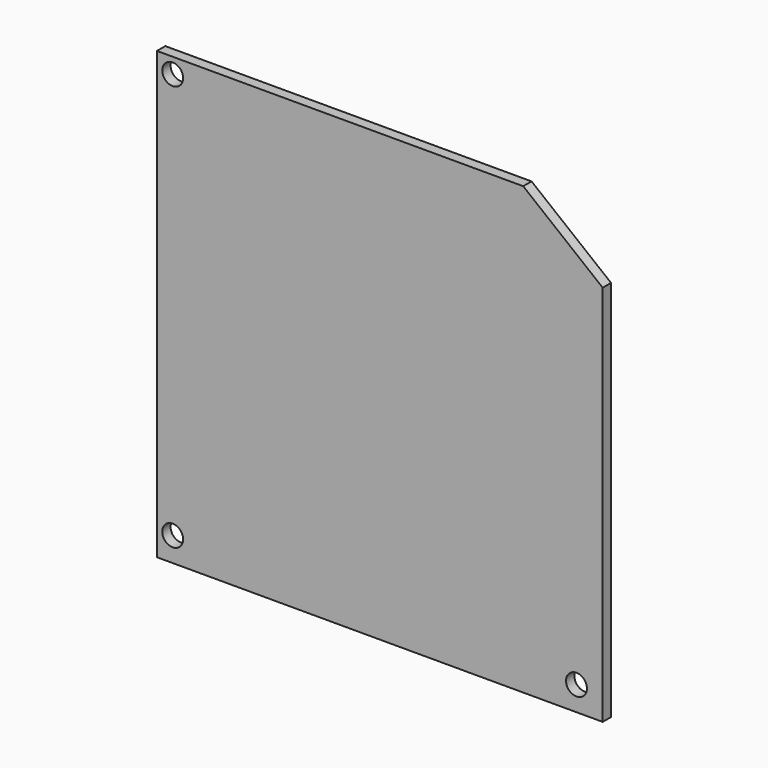
from build123d import *

# Parameters (mm, degrees)
F0_W     = 203.2
F0_H     = 203.2
F1_DEPTH = 4.7625
F3_DEPTH = 25.4
F5_D     = 9.525


with BuildPart() as f1:
    # F0 (on Front) → F1 (new body)
    with BuildSketch(Plane.XZ):
        with Locations((-69.8862, -6.438033)):
            Rectangle(F0_W, F0_H)
    extrude(amount=F1_DEPTH)

    # F2 (on face) → F3 (cut)
    with BuildSketch(Plane.XZ.offset(4.7625)):
        Polygon((31.7138, 95.161967), (-4.51766, 95.161967), (31.7138, 66.210844), align=None)
    extrude(amount=-F3_DEPTH, mode=Mode.SUBTRACT)

    # F5 (through all)
    with Locations(Plane.XZ.offset(4.7625)):
        with Locations((-164.311469, 88.123493), (-164.311469, -96.954145), (19.754818, -96.954145)):
            Hole(F5_D / 2)


solid = f1.part
